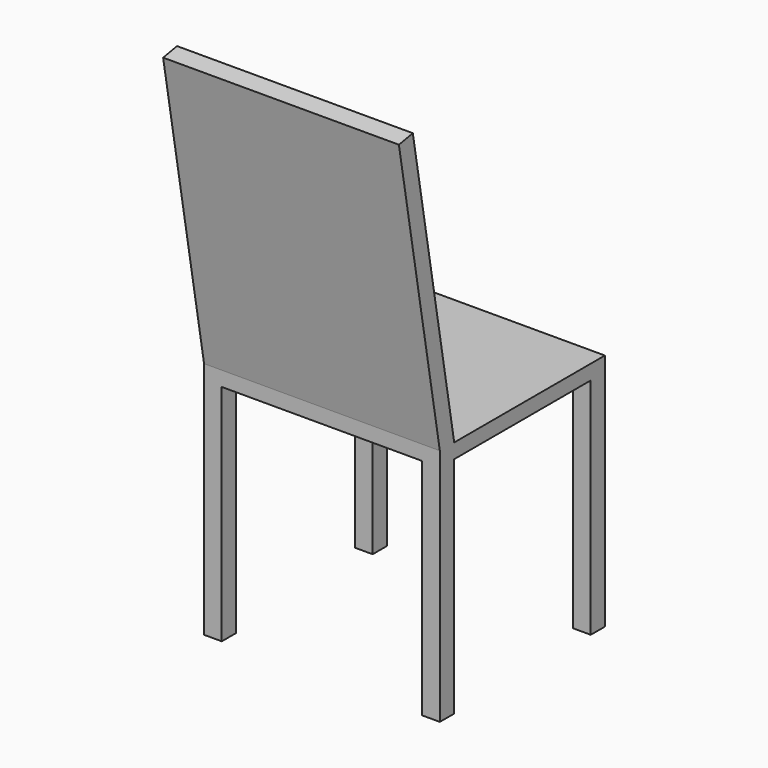
from build123d import *

# Parameters (mm, degrees)
F0_W     = 400
F0_H     = 350
F1_DEPTH = 25
F2_W     = 30
F2_H     = 30
F3_DEPTH = 380
F5_DEPTH = 400


with BuildPart() as f1:
    # F0 (on Top) → F1 (new body)
    with BuildSketch(Plane.XY):
        with Locations((200, 175)):
            Rectangle(F0_W, F0_H)
    extrude(amount=F1_DEPTH)

    # F2 (on face) → F3 (join)
    with BuildSketch(Plane(origin=(0, 0, 0), x_dir=(1, 0, 0), z_dir=(0, 0, -1))):
        with Locations((15, -15)):
            Rectangle(F2_W, F2_H)
        with Locations((385, -15)):
            Rectangle(F2_W, F2_H)
        with Locations((15, -335)):
            Rectangle(F2_W, F2_H)
        with Locations((385, -335)):
            Rectangle(F2_W, F2_H)
    extrude(amount=F3_DEPTH)

    # F4 (on Right) → F5 (join, through all)
    with BuildSketch(Plane.YZ):
        Polygon((-86.824089, 517.403877), (0, 25), (30.462798, 25), (-57.279856, 522.613322), align=None)
    extrude(amount=F5_DEPTH)


solid = f1.part
